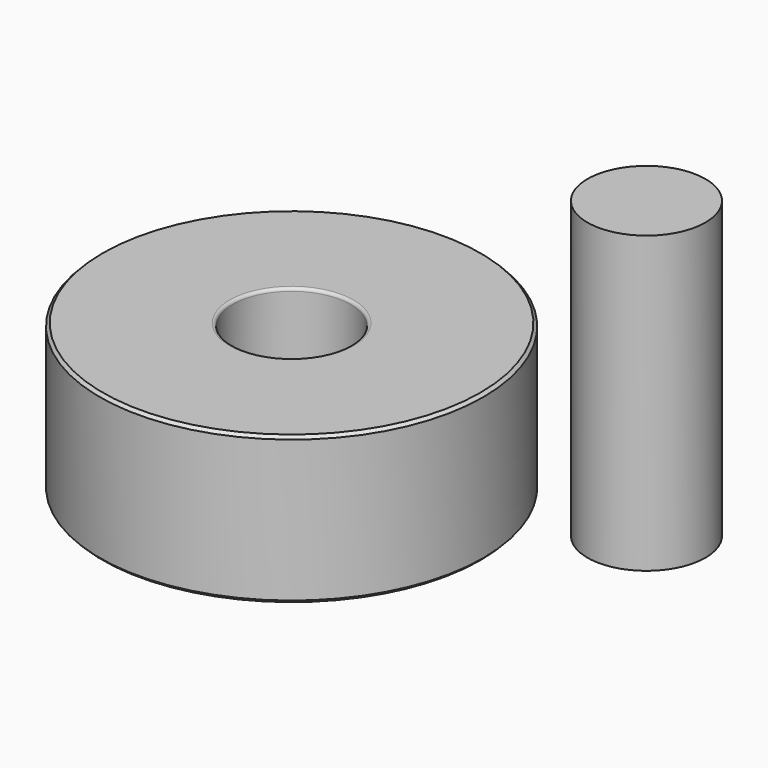
from build123d import *

# Parameters (mm, degrees)
F0_R     = 6.5
F0_R_2   = 2
F1_DEPTH = 5
F2_SIZE  = 0.1
F3_R     = 0.1
F4_R     = 2
F5_DEPTH = 10


with BuildPart() as f1:
    # F0 (on Top) → F1 (new body)
    with BuildSketch(Plane.XY):
        Circle(F0_R)
        Circle(F0_R_2, mode=Mode.SUBTRACT)
    extrude(amount=F1_DEPTH)

    # F2
    f2_edges = [f1.edges().sort_by_distance(p)[0] for p in [
        (-6.5, 0, 5),
        (-6.5, 0, 0),
    ]]
    chamfer(f2_edges, length=F2_SIZE)

    # F3
    f3_edges = [f1.edges().sort_by_distance(p)[0] for p in [
        (-2, 0, 5),
        (-2, 0, 0),
    ]]
    fillet(f3_edges, radius=F3_R)


with BuildPart() as f5:
    # F4 (on Top) → F5 (new body)
    with BuildSketch(Plane.XY):
        with Locations((8.960678, 3.830731)):
            Circle(F4_R)
    extrude(amount=F5_DEPTH)


solid = Compound([f1.part, f5.part])
